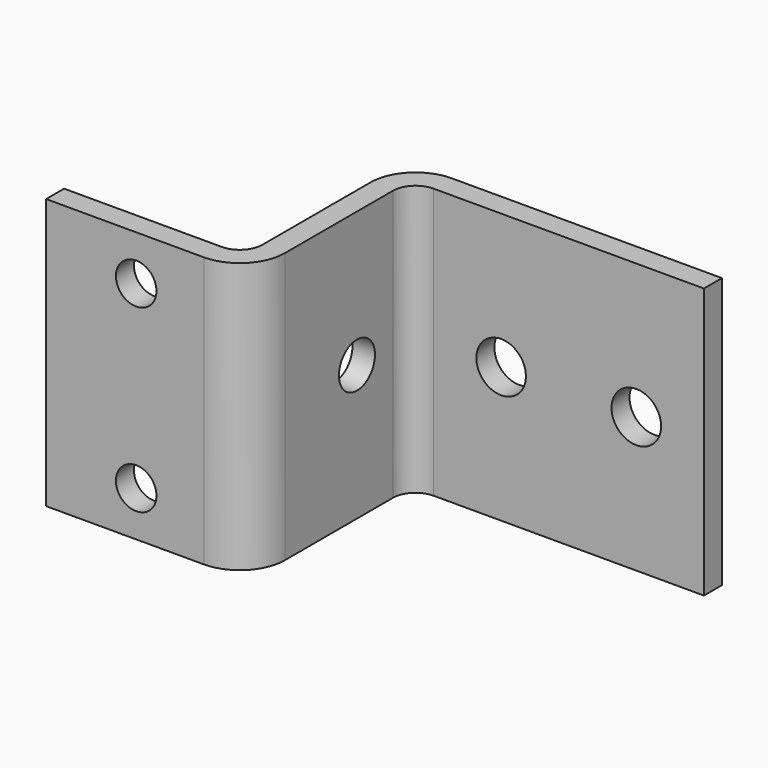
from build123d import *

# Parameters (mm, degrees)
F1_DEPTH  = 60
F3_R      = 4.5
F4_DEPTH  = 25
F6_R      = 5.5
F7_DEPTH  = 25
F9_R      = 5
F10_DEPTH = 25


with BuildPart() as f1:
    # F0 (on Top) → F1 (new body)
    with BuildSketch(Plane.XY):
        with BuildLine():
            Line((0, 5), (0, 0))
            Line((0, 0), (35, 0))
            ThreePointArc((35, 0), (42.0710678119, 2.9289321881), (45, 10))
            Line((45, 10), (45, 40))
            ThreePointArc((45, 40), (46.4644660941, 43.5355339059), (50, 45))
            Line((50, 45), (110, 45))
            Line((110, 45), (110, 50))
            Line((110, 50), (50, 50))
            ThreePointArc((50, 50), (42.9289321881, 47.0710678119), (40, 40))
            Line((40, 40), (40, 10))
            ThreePointArc((40, 10), (38.5355339059, 6.4644660941), (35, 5))
            Line((35, 5), (0, 5))
        make_face()
    extrude(amount=F1_DEPTH)

    # F3 (on offset) → F4 (cut)
    with BuildSketch(Plane(origin=(0, 5, 0), x_dir=(-1, 0, 0), z_dir=(0, 1, 0))):
        with Locations((-20, 10)):
            Circle(F3_R)
        with Locations((-20, 50)):
            Circle(F3_R)
    extrude(amount=-F4_DEPTH, mode=Mode.SUBTRACT)

    # F6 (on offset) → F7 (cut)
    with BuildSketch(Plane(origin=(0, 50, 0), x_dir=(-1, 0, 0), z_dir=(0, 1, 0))):
        with Locations((-65, 30)):
            Circle(F6_R)
        with Locations((-95, 30)):
            Circle(F6_R)
    extrude(amount=-F7_DEPTH, mode=Mode.SUBTRACT)

    # F9 (on offset) → F10 (cut)
    with BuildSketch(Plane(origin=(40, 0, 0), x_dir=(0, -1, 0), z_dir=(-1, 0, 0))):
        with Locations((-30, 30)):
            Circle(F9_R)
    extrude(amount=-F10_DEPTH, mode=Mode.SUBTRACT)


solid = f1.part
